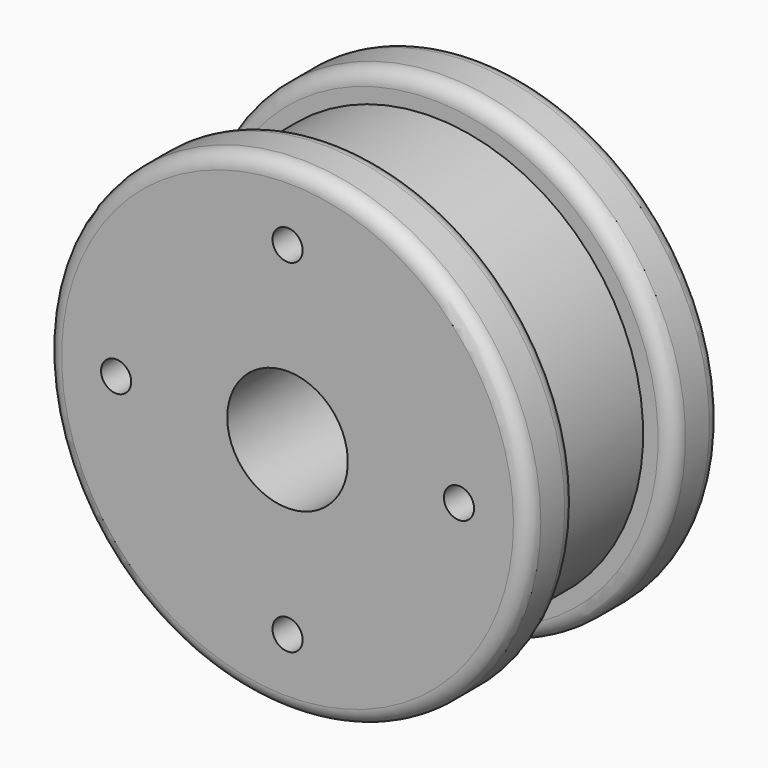
from build123d import *

# Parameters (mm, degrees)
F0_R     = 25.4
F1_DEPTH = 6.35
F2_R     = 22.225
F3_DEPTH = 12.7
F4_R     = 25.4
F5_DEPTH = 6.35
F6_R     = 1.6002
F8_D     = 3.175
F8_DEPTH = 3.175
F8_TIP   = 0.9538662327
F10_D    = 12.7


with BuildPart() as f1:
    # F0 (on Front) → F1 (new body)
    with BuildSketch(Plane.XZ):
        Circle(F0_R)
    extrude(amount=F1_DEPTH)

    # F2 (on face) → F3 (join)
    with BuildSketch(Plane(origin=(0, 0, 0), x_dir=(-1, 0, 0), z_dir=(0, 1, 0))):
        Circle(F2_R)
    extrude(amount=F3_DEPTH)

    # F4 (on face) → F5 (join)
    with BuildSketch(Plane(origin=(0, 12.7, 0), x_dir=(-1, 0, 0), z_dir=(0, 1, 0))):
        Circle(F4_R)
    extrude(amount=F5_DEPTH)

    # F6
    f6_edges = [f1.edges().sort_by_distance(p)[0] for p in [
        (-25.4, -6.35, 0),
        (25.4, 19.05, 0),
        (-25.4, 0, 0),
        (25.4, 12.7, 0),
    ]]
    fillet(f6_edges, radius=F6_R)

    # F8
    with Locations(Plane.XZ.offset(6.35)):
        with Locations((0, 18.0589817464), (-18.0589817464, 0), (0, -18.0589817464), (18.0589817464, 0)):
            Hole(F8_D / 2, depth=F8_DEPTH)
            with Locations((0, 0, -(F8_DEPTH + F8_TIP / 2))):  # 118° drill point
                Cone(0, F8_D / 2, F8_TIP, mode=Mode.SUBTRACT)

    # F10 (through all)
    with Locations(Plane.XZ.offset(6.35)):
        with Locations((0, 0)):
            Hole(F10_D / 2)


solid = f1.part
